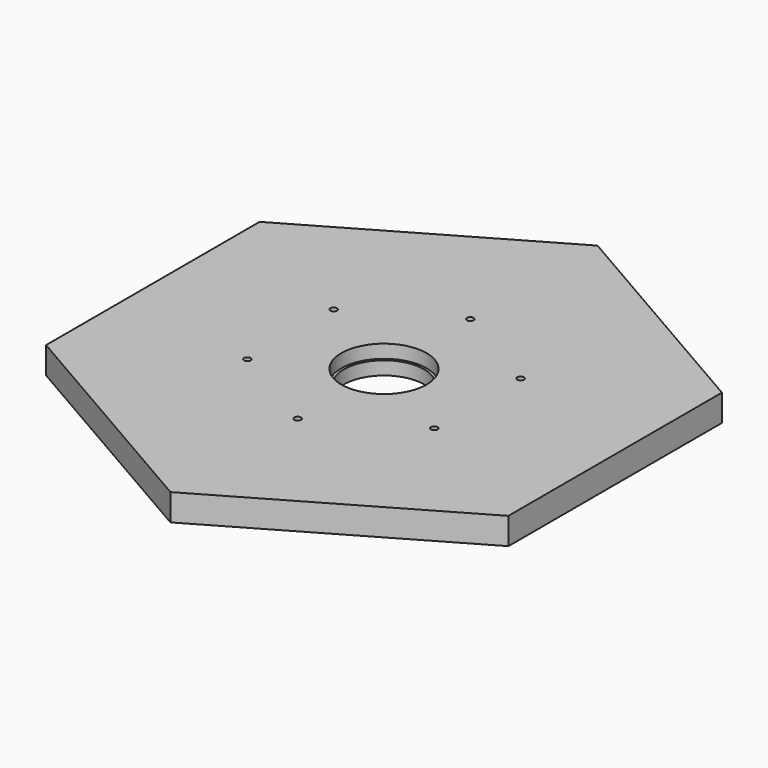
from build123d import *

# Parameters (mm, degrees)
PAD002_DEPTH            = 10
SKETCH009_R             = 15.975
POCKET007_DEPTH         = 5
SKETCH008_R             = 15
POCKET008_DEPTH         = 5
SKETCH024_R             = 1.25
HOLE004_DEPTH           = 10.001
SKETCH066_R             = 1.25
HOLE005_DEPTH           = 6.248924
HOLE005_TIPS_R          = 1.25
BODY002_PLACEMENT_ANGLE = 180


with BuildPart() as part:
    # Sketch007 → Pad002 (new body)
    with BuildSketch(Plane.XY):
        Polygon((86.60254, 50), (0, 100), (-86.60254, 50), (-86.60254, -50), (0, -100), (86.60254, -50), align=None)
    extrude(amount=PAD002_DEPTH)

    # Sketch009 → Pocket007 (cut)
    with BuildSketch(Plane(origin=(0, 0, 0), x_dir=(1, 0, 0), z_dir=(0, 0, -1))):
        Circle(SKETCH009_R)
    extrude(amount=-POCKET007_DEPTH, mode=Mode.SUBTRACT)

    # Sketch008 → Pocket008 (cut)
    with BuildSketch(Plane.XY.offset(10)):
        Circle(SKETCH008_R)
    extrude(amount=-POCKET008_DEPTH, mode=Mode.SUBTRACT)

    # Sketch024 → Hole004 (cut, through all)
    with BuildSketch(Plane.XY.offset(10)):
        with Locations((35, -20.207259)):
            Circle(SKETCH024_R)
        with Locations((0, 40.414519)):
            Circle(SKETCH024_R)
        with Locations((-35, -20.207259)):
            Circle(SKETCH024_R)
    extrude(amount=-HOLE004_DEPTH, mode=Mode.SUBTRACT)

    # Sketch066 (on Face4 of Hole004) → Hole005 (cut)
    with BuildSketch(Plane(origin=(0, 0, 0), x_dir=(1, 0, 0), z_dir=(0, 0, -1))):
        with Locations((35, -20.207259)):
            Circle(SKETCH066_R)
        with Locations((0, 40.414519)):
            Circle(SKETCH066_R)
        with Locations((-35, -20.207259)):
            Circle(SKETCH066_R)
    extrude(amount=-HOLE005_DEPTH, mode=Mode.SUBTRACT)

    # Hole005 tips → Hole005 tip 1 section 0
    with BuildSketch(Plane(origin=(0, 0, 6.248924), x_dir=(1, 0, 0), z_dir=(0, 0, -1)), mode=Mode.PRIVATE) as hole005_tip_1_s0:
        with Locations((35, -20.207259)):
            Circle(HOLE005_TIPS_R)
    loft([hole005_tip_1_s0.sketch, Vertex(35, 20.207259, 7)], mode=Mode.SUBTRACT)

    # Hole005 tips → Hole005 tip 2 section 0
    with BuildSketch(Plane(origin=(0, 0, 6.248924), x_dir=(1, 0, 0), z_dir=(0, 0, -1)), mode=Mode.PRIVATE) as hole005_tip_2_s0:
        with Locations((0, 40.414519)):
            Circle(HOLE005_TIPS_R)
    loft([hole005_tip_2_s0.sketch, Vertex(0, -40.414519, 7)], mode=Mode.SUBTRACT)

    # Hole005 tips → Hole005 tip 3 section 0
    with BuildSketch(Plane(origin=(0, 0, 6.248924), x_dir=(1, 0, 0), z_dir=(0, 0, -1)), mode=Mode.PRIVATE) as hole005_tip_3_s0:
        with Locations((-35, -20.207259)):
            Circle(HOLE005_TIPS_R)
    loft([hole005_tip_3_s0.sketch, Vertex(-35, 20.207259, 7)], mode=Mode.SUBTRACT)


with BuildPart() as part_1:
    # Body002 placement: moved
    add(part.part.moved(Location((3.1, 54.8, 93.3))).rotate(Axis((3.1, 54.8, 93.3), (1, 0, 0)), BODY002_PLACEMENT_ANGLE))


solid = part_1.part
